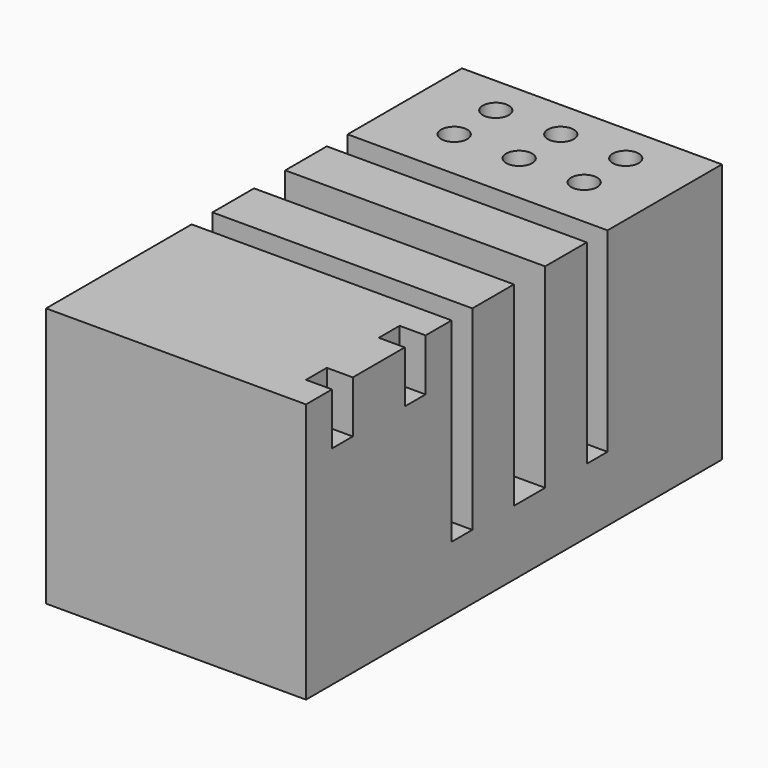
from build123d import *

# Parameters (mm, degrees)
F0_W     = 100
F0_H     = 135
F1_DEPTH = 100
F0_W_2   = 11.520768702
F0_H_2   = 10
F2_DEPTH = 100
F3_W     = 100
F3_H     = 10
F3_H_2   = 15
F5_DEPTH = 75
F6_DEPTH = 50
F4_W     = 10
F4_H     = 20
F7_DEPTH = 10


with BuildPart() as f1:
    # F0 (on Top) → F1 (new body)
    with BuildSketch(Plane.XY):
        with Locations((0, 32.5)):
            Rectangle(F0_W, F0_H)
    extrude(amount=F1_DEPTH)

    # F0 (on Top) → F2 (join)
    with BuildSketch(Plane.XY):
        Polygon((50, -45), (50, -35), (-50, -35), (-50, -100), (50, -100), (50, -90), (38.479231298, -90), (38.479231298, -80), (50, -80), (50, -55), (38.479231298, -55), (38.479231298, -45), align=None)
        with Locations((44.239615649, -50)):
            Rectangle(F0_W_2, F0_H_2)
        with Locations((44.239615649, -85)):
            Rectangle(F0_W_2, F0_H_2)
    extrude(amount=F2_DEPTH)

    # F3 (on face) → F5 (cut)
    with BuildSketch(Plane.XY.offset(100)):
        with Locations((0, -25)):
            Rectangle(F3_W, F3_H)
        with Locations((0, 7.5)):
            Rectangle(F3_W, F3_H_2)
        with Locations((0, 40)):
            Rectangle(F3_W, F3_H)
    extrude(amount=-F5_DEPTH, mode=Mode.SUBTRACT)

    # F3 (on face) → F6 (cut)
    with BuildSketch(Plane.XY.offset(100)):
        with BuildLine():
            ThreePointArc((20, 65), (25, 60), (30, 65))
            Line((30, 65), (20, 65))
        make_face()
        with BuildLine():
            Line((20, 65), (30, 65))
            ThreePointArc((30, 65), (25, 70), (20, 65))
        make_face()
        with BuildLine():
            ThreePointArc((-5, 65), (0, 60), (5, 65))
            Line((5, 65), (-5, 65))
        make_face()
        with BuildLine():
            Line((-5, 65), (5, 65))
            ThreePointArc((5, 65), (0, 70), (-5, 65))
        make_face()
        with BuildLine():
            Line((-20, 65), (-30, 65))
            ThreePointArc((-30, 65), (-25, 60), (-20, 65))
        make_face()
        with BuildLine():
            ThreePointArc((-20, 65), (-25, 70), (-30, 65))
            Line((-30, 65), (-20, 65))
        make_face()
        with BuildLine():
            ThreePointArc((-30, 85), (-25, 80), (-20, 85))
            Line((-20, 85), (-30, 85))
        make_face()
        with BuildLine():
            Line((-30, 85), (-20, 85))
            ThreePointArc((-20, 85), (-25, 90), (-30, 85))
        make_face()
        with BuildLine():
            Line((-5, 85), (5, 85))
            ThreePointArc((5, 85), (0, 90), (-5, 85))
        make_face()
        with BuildLine():
            ThreePointArc((-5, 85), (0, 80), (5, 85))
            Line((5, 85), (-5, 85))
        make_face()
        with BuildLine():
            ThreePointArc((20, 85), (25, 80), (30, 85))
            Line((30, 85), (20, 85))
        make_face()
        with BuildLine():
            Line((20, 85), (30, 85))
            ThreePointArc((30, 85), (25, 90), (20, 85))
        make_face()
    extrude(amount=-F6_DEPTH, mode=Mode.SUBTRACT)

    # F4 (on face) → F7 (cut)
    with BuildSketch(Plane.YZ.offset(50)):
        with Locations((-82.5, 90)):
            Rectangle(F4_W, F4_H)
        with Locations((-47.5, 90)):
            Rectangle(F4_W, F4_H)
    extrude(amount=-F7_DEPTH, mode=Mode.SUBTRACT)


solid = f1.part
